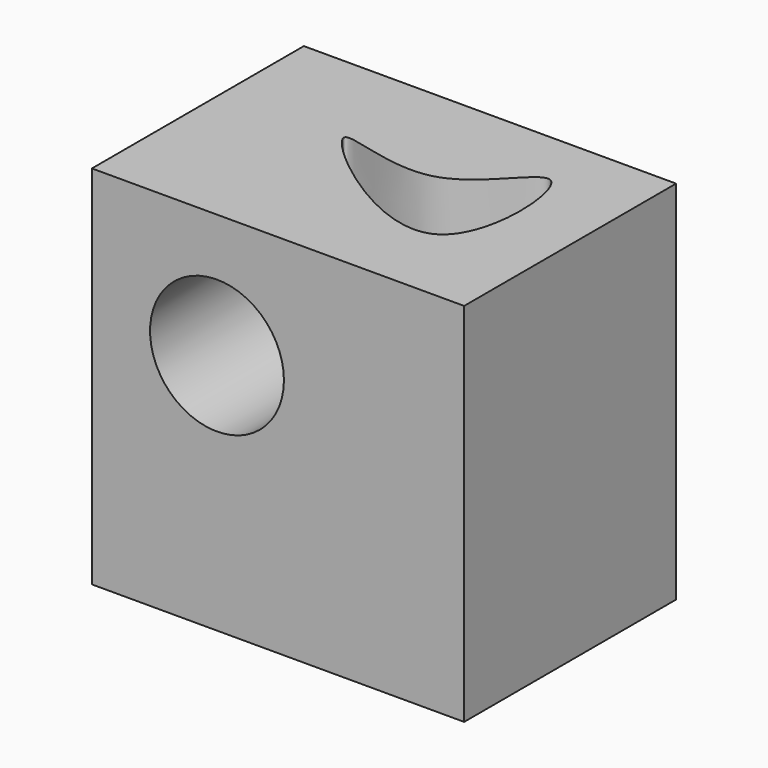
from build123d import *

# Parameters (mm, degrees)
F0_W     = 107.0637367666
F0_H     = 105.3369119763
F0_R     = 19.2507397317
F1_DEPTH = 76.2
F3_DEPTH = 38.1


with BuildPart() as f1:
    # F0 (on Front) → F1 (new body)
    with BuildSketch(Plane.XZ):
        with Locations((3.8853753358, -0.1439042389)):
            Rectangle(F0_W, F0_H)
        with Locations((-13.6707732454, 16.8366357684)):
            Circle(F0_R, mode=Mode.SUBTRACT)
    extrude(amount=F1_DEPTH)

    # F2 (on face) → F3 (cut)
    with BuildSketch(Plane.XY.offset(52.5245517492)):
        with BuildLine():
            add(Edge.make_bspline(
                [(-14.8060824722, -29.2552541941), (-14.4267527486, -33.5892864998), (43.3140140382, -81.1671529184), (38.0347545123, 3.6115362955), (17.5674305492, -42.7482236426), (-15.0870661462, -26.0448748214), (-14.8060824722, -29.2552541941)],
                knots=[0, 0, 0, 0, 0.3019235435, 0.5599165152, 0.7763539706, 1, 1, 1, 1], degree=3))
        make_face()
    extrude(amount=-F3_DEPTH, mode=Mode.SUBTRACT)


solid = f1.part
